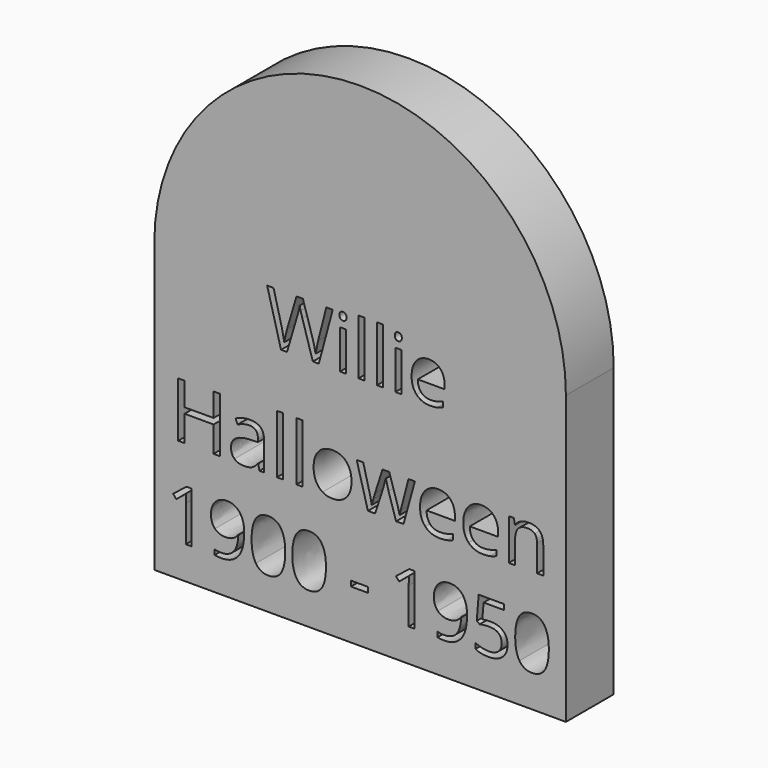
from build123d import *

# Parameters (mm, degrees)
F0_W     = 7.2577133946
F0_H     = 2.2473362858
F0_W_2   = 2.6551204313
F0_H_2   = 24.8783249663
F0_W_3   = 2.5140823151
F0_H_3   = 16.5910056441
F0_H_4   = 23.5568059701
F1_DEPTH = 25.4


with BuildPart() as f1:
    # F0 (on Front) → F1 (new body)
    with BuildSketch(Plane.XZ):
        with BuildLine():
            ThreePointArc((88.068138808, 47.0155989751), (0.5923323333, 134.4914054498), (-86.8834741414, 47.0155989751))
            Line((-86.8834741414, 47.0155989751), (-86.8834741414, -75.1739479601))
            Line((-86.8834741414, -75.1739479601), (88.068138808, -75.1739479601))
            Line((88.068138808, -75.1739479601), (88.068138808, 47.0155989751))
        make_face()
        with BuildLine():
            Line((-71.0892814111, -39.6145068492), (-71.0892814111, -61.2315163016))
            Line((-71.0892814111, -61.2315163016), (-73.4832859598, -61.2315163016))
            Line((-73.4832859598, -61.2315163016), (-73.4832859598, -45.8266174666))
            add(Edge.make_bspline(
                [(-73.4832859598, -45.8266174666), (-73.4832859598, -43.9010051123), (-73.3650051027, -42.1882983008)],
                knots=[0, 0, 0, 1, 1, 1], degree=2))
            add(Edge.make_bspline(
                [(-73.3650051027, -42.1882983008), (-73.6725353312, -42.5005597636), (-74.0581309256, -42.8388430151)],
                knots=[0, 0, 0, 1, 1, 1], degree=2))
            add(Edge.make_bspline(
                [(-74.0581309256, -42.8388430151), (-74.4437265199, -43.1771262665), (-77.5758036171, -45.7225303124)],
                knots=[0, 0, 0, 1, 1, 1], degree=2))
            Line((-77.5758036171, -45.7225303124), (-78.8768930458, -44.0382109066))
            Line((-78.8768930458, -44.0382109066), (-73.1568307941, -39.6145068492))
            Line((-73.1568307941, -39.6145068492), (-71.0892814111, -39.6145068492))
        make_face(mode=Mode.SUBTRACT)
        with BuildLine():
            add(Edge.make_bspline(
                [(-49.5456060902, -43.7330462951), (-48.6584996615, -45.8975859809), (-48.6584996615, -48.8404137068)],
                knots=[0, 0, 0, 1, 1, 1], degree=2))
            add(Edge.make_bspline(
                [(-48.6584996615, -48.8404137068), (-48.6584996615, -61.5295840616), (-58.4758108048, -61.5295840616)],
                knots=[0, 0, 0, 1, 1, 1], degree=2))
            add(Edge.make_bspline(
                [(-58.4758108048, -61.5295840616), (-60.1932488506, -61.5295840616), (-61.1962705193, -61.2315163016)],
                knots=[0, 0, 0, 1, 1, 1], degree=2))
            Line((-61.1962705193, -61.2315163016), (-61.1962705193, -59.1166545758))
            add(Edge.make_bspline(
                [(-61.1962705193, -59.1166545758), (-60.0134619478, -59.499884553), (-58.5089294448, -59.499884553)],
                knots=[0, 0, 0, 1, 1, 1], degree=2))
            add(Edge.make_bspline(
                [(-58.5089294448, -59.499884553), (-54.9605037304, -59.499884553), (-53.1484409989, -57.3045918443)],
                knots=[0, 0, 0, 1, 1, 1], degree=2))
            add(Edge.make_bspline(
                [(-53.1484409989, -57.3045918443), (-51.3363782674, -55.1092991356), (-51.1755163017, -50.5720454554)],
                knots=[0, 0, 0, 1, 1, 1], degree=2))
            Line((-51.1755163017, -50.5720454554), (-51.3505719702, -50.5720454554))
            add(Edge.make_bspline(
                [(-51.3505719702, -50.5720454554), (-52.1643442674, -51.7974351355), (-53.5103804218, -52.4408829984)],
                knots=[0, 0, 0, 1, 1, 1], degree=2))
            add(Edge.make_bspline(
                [(-53.5103804218, -52.4408829984), (-54.8564165761, -53.0843308613), (-56.5407359819, -53.0843308613)],
                knots=[0, 0, 0, 1, 1, 1], degree=2))
            add(Edge.make_bspline(
                [(-56.5407359819, -53.0843308613), (-59.4078639592, -53.0843308613), (-61.0945489821, -51.3692584326)],
                knots=[0, 0, 0, 1, 1, 1], degree=2))
            add(Edge.make_bspline(
                [(-61.0945489821, -51.3692584326), (-62.781234005, -49.654186004), (-62.781234005, -46.5788837181)],
                knots=[0, 0, 0, 1, 1, 1], degree=2))
            add(Edge.make_bspline(
                [(-62.781234005, -46.5788837181), (-62.781234005, -43.2102449065), (-60.8958371421, -41.2586107636)],
                knots=[0, 0, 0, 1, 1, 1], degree=2))
            add(Edge.make_bspline(
                [(-60.8958371421, -41.2586107636), (-59.0104402792, -39.3069766206), (-55.9351379933, -39.3069766206)],
                knots=[0, 0, 0, 1, 1, 1], degree=2))
            add(Edge.make_bspline(
                [(-55.9351379933, -39.3069766206), (-53.7303828161, -39.3069766206), (-52.0815476674, -40.437741615)],
                knots=[0, 0, 0, 1, 1, 1], degree=2))
            add(Edge.make_bspline(
                [(-52.0815476674, -40.437741615), (-50.4327125188, -41.5685066093), (-49.5456060902, -43.7330462951)],
                knots=[0, 0, 0, 1, 1, 1], degree=2))
        make_face(mode=Mode.SUBTRACT)
        with BuildLine():
            add(Edge.make_bspline(
                [(-33.0548889865, -42.1291578722), (-31.2286325522, -44.9844577638), (-31.2286325522, -50.3922585526)],
                knots=[0, 0, 0, 1, 1, 1], degree=2))
            add(Edge.make_bspline(
                [(-31.2286325522, -50.3922585526), (-31.2286325522, -55.9987711814), (-32.995748558, -58.7641776215)],
                knots=[0, 0, 0, 1, 1, 1], degree=2))
            add(Edge.make_bspline(
                [(-32.995748558, -58.7641776215), (-34.7628645638, -61.5295840616), (-38.4011837296, -61.5295840616)],
                knots=[0, 0, 0, 1, 1, 1], degree=2))
            add(Edge.make_bspline(
                [(-38.4011837296, -61.5295840616), (-41.8881033984, -61.5295840616), (-43.7072629813, -58.6979403415)],
                knots=[0, 0, 0, 1, 1, 1], degree=2))
            add(Edge.make_bspline(
                [(-43.7072629813, -58.6979403415), (-45.5264225643, -55.8662966214), (-45.5264225643, -50.3922585526)],
                knots=[0, 0, 0, 1, 1, 1], degree=2))
            add(Edge.make_bspline(
                [(-45.5264225643, -50.3922585526), (-45.5264225643, -44.7478960495), (-43.7664034099, -42.010877015)],
                knots=[0, 0, 0, 1, 1, 1], degree=2))
            add(Edge.make_bspline(
                [(-43.7664034099, -42.010877015), (-42.0063842555, -39.2738579806), (-38.4011837296, -39.2738579806)],
                knots=[0, 0, 0, 1, 1, 1], degree=2))
            add(Edge.make_bspline(
                [(-38.4011837296, -39.2738579806), (-34.8811454209, -39.2738579806), (-33.0548889865, -42.1291578722)],
                knots=[0, 0, 0, 1, 1, 1], degree=2))
        make_face(mode=Mode.SUBTRACT)
        with BuildLine():
            add(Edge.make_bspline(
                [(-15.7433027343, -42.1291578722), (-13.9170463, -44.9844577638), (-13.9170463, -50.3922585526)],
                knots=[0, 0, 0, 1, 1, 1], degree=2))
            add(Edge.make_bspline(
                [(-13.9170463, -50.3922585526), (-13.9170463, -55.9987711814), (-15.6841623058, -58.7641776215)],
                knots=[0, 0, 0, 1, 1, 1], degree=2))
            add(Edge.make_bspline(
                [(-15.6841623058, -58.7641776215), (-17.4512783116, -61.5295840616), (-21.0895974774, -61.5295840616)],
                knots=[0, 0, 0, 1, 1, 1], degree=2))
            add(Edge.make_bspline(
                [(-21.0895974774, -61.5295840616), (-24.5765171462, -61.5295840616), (-26.3956767291, -58.6979403415)],
                knots=[0, 0, 0, 1, 1, 1], degree=2))
            add(Edge.make_bspline(
                [(-26.3956767291, -58.6979403415), (-28.214836312, -55.8662966214), (-28.214836312, -50.3922585526)],
                knots=[0, 0, 0, 1, 1, 1], degree=2))
            add(Edge.make_bspline(
                [(-28.214836312, -50.3922585526), (-28.214836312, -44.7478960495), (-26.4548171577, -42.010877015)],
                knots=[0, 0, 0, 1, 1, 1], degree=2))
            add(Edge.make_bspline(
                [(-26.4548171577, -42.010877015), (-24.6947980033, -39.2738579806), (-21.0895974774, -39.2738579806)],
                knots=[0, 0, 0, 1, 1, 1], degree=2))
            add(Edge.make_bspline(
                [(-21.0895974774, -39.2738579806), (-17.5695591687, -39.2738579806), (-15.7433027343, -42.1291578722)],
                knots=[0, 0, 0, 1, 1, 1], degree=2))
        make_face(mode=Mode.SUBTRACT)
        with Locations((0.328700135, -53.1150838841)):
            Rectangle(F0_W, F0_H, mode=Mode.SUBTRACT)
        Polygon((-58.9741195759, -0.1995177203), (-58.9741195759, -23.573786026), (-61.690630075, -23.573786026), (-61.690630075, -12.5747322161), (-74.0044545031, -12.5747322161), (-74.0044545031, -23.573786026), (-76.7209650021, -23.573786026), (-76.7209650021, -0.1995177203), (-74.0044545031, -0.1995177203), (-74.0044545031, -10.1447087), (-61.690630075, -10.1447087), (-61.690630075, -0.1995177203), align=None, mode=Mode.SUBTRACT)
        with BuildLine():
            Line((-40.2194538703, -23.573786026), (-42.1890518781, -23.573786026))
            Line((-42.1890518781, -23.573786026), (-42.7159832932, -21.0772566031))
            Line((-42.7159832932, -21.0772566031), (-42.8438792677, -21.0772566031))
            add(Edge.make_bspline(
                [(-42.8438792677, -21.0772566031), (-44.1535340469, -22.7245567551), (-45.4555150677, -23.3103203185)],
                knots=[0, 0, 0, 1, 1, 1], degree=2))
            add(Edge.make_bspline(
                [(-45.4555150677, -23.3103203185), (-46.7574960884, -23.8960838818), (-48.7117465793, -23.8960838818)],
                knots=[0, 0, 0, 1, 1, 1], degree=2))
            add(Edge.make_bspline(
                [(-48.7117465793, -23.8960838818), (-51.3157086208, -23.8960838818), (-52.7941860864, -22.5506182297)],
                knots=[0, 0, 0, 1, 1, 1], degree=2))
            add(Edge.make_bspline(
                [(-52.7941860864, -22.5506182297), (-54.272663552, -21.2051525777), (-54.272663552, -18.7290865107)],
                knots=[0, 0, 0, 1, 1, 1], degree=2))
            add(Edge.make_bspline(
                [(-54.272663552, -18.7290865107), (-54.272663552, -13.423961487), (-45.785486682, -13.168169538)],
                knots=[0, 0, 0, 1, 1, 1], degree=2))
            Line((-45.785486682, -13.168169538), (-42.8131842338, -13.0709685973))
            Line((-42.8131842338, -13.0709685973), (-42.8131842338, -11.9812948943))
            add(Edge.make_bspline(
                [(-42.8131842338, -11.9812948943), (-42.8131842338, -9.9196117848), (-43.6982243776, -8.9373707004)],
                knots=[0, 0, 0, 1, 1, 1], degree=2))
            add(Edge.make_bspline(
                [(-43.6982243776, -8.9373707004), (-44.5832645214, -7.955129616), (-46.5375150122, -7.955129616)],
                knots=[0, 0, 0, 1, 1, 1], degree=2))
            add(Edge.make_bspline(
                [(-46.5375150122, -7.955129616), (-48.7270940963, -7.955129616), (-51.4896471462, -9.2954794291)],
                knots=[0, 0, 0, 1, 1, 1], degree=2))
            Line((-51.4896471462, -9.2954794291), (-52.3081813832, -7.2644913535))
            add(Edge.make_bspline(
                [(-52.3081813832, -7.2644913535), (-51.0138741209, -6.5636214131), (-49.471448668, -6.1645859725)],
                knots=[0, 0, 0, 1, 1, 1], degree=2))
            add(Edge.make_bspline(
                [(-49.471448668, -6.1645859725), (-47.9290232152, -5.765550532), (-46.3738081648, -5.765550532)],
                knots=[0, 0, 0, 1, 1, 1], degree=2))
            add(Edge.make_bspline(
                [(-46.3738081648, -5.765550532), (-43.2429147083, -5.765550532), (-41.7311842893, -7.1545008154)],
                knots=[0, 0, 0, 1, 1, 1], degree=2))
            add(Edge.make_bspline(
                [(-41.7311842893, -7.1545008154), (-40.2194538703, -8.5434510988), (-40.2194538703, -11.6129544876)],
                knots=[0, 0, 0, 1, 1, 1], degree=2))
            Line((-40.2194538703, -11.6129544876), (-40.2194538703, -23.573786026))
        make_face(mode=Mode.SUBTRACT)
        with Locations((-33.4281776226, -11.1346235429)):
            Rectangle(F0_W_2, F0_H_2, mode=Mode.SUBTRACT)
        with Locations((-25.1456343118, -11.1346235429)):
            Rectangle(F0_W_2, F0_H_2, mode=Mode.SUBTRACT)
        with BuildLine():
            add(Edge.make_bspline(
                [(-5.2347889964, -8.1776686117), (-3.0682311878, -10.6255975642), (-3.0682311878, -14.795006334)],
                knots=[0, 0, 0, 1, 1, 1], degree=2))
            add(Edge.make_bspline(
                [(-3.0682311878, -14.795006334), (-3.0682311878, -19.0820794004), (-5.2245573184, -21.4890816411)],
                knots=[0, 0, 0, 1, 1, 1], degree=2))
            add(Edge.make_bspline(
                [(-5.2245573184, -21.4890816411), (-7.3808834491, -23.8960838818), (-11.1870676512, -23.8960838818)],
                knots=[0, 0, 0, 1, 1, 1], degree=2))
            add(Edge.make_bspline(
                [(-11.1870676512, -23.8960838818), (-13.5403535826, -23.8960838818), (-15.36159226, -22.7910626619)],
                knots=[0, 0, 0, 1, 1, 1], degree=2))
            add(Edge.make_bspline(
                [(-15.36159226, -22.7910626619), (-17.1828309373, -21.6860414419), (-18.1753036997, -19.6243583324)],
                knots=[0, 0, 0, 1, 1, 1], degree=2))
            add(Edge.make_bspline(
                [(-18.1753036997, -19.6243583324), (-19.1677764621, -17.5626752229), (-19.1677764621, -14.795006334)],
                knots=[0, 0, 0, 1, 1, 1], degree=2))
            add(Edge.make_bspline(
                [(-19.1677764621, -14.795006334), (-19.1677764621, -10.5130491067), (-17.0242399289, -8.1213943829)],
                knots=[0, 0, 0, 1, 1, 1], degree=2))
            add(Edge.make_bspline(
                [(-17.0242399289, -8.1213943829), (-14.8807033957, -5.7297396591), (-11.0745191936, -5.7297396591)],
                knots=[0, 0, 0, 1, 1, 1], degree=2))
            add(Edge.make_bspline(
                [(-11.0745191936, -5.7297396591), (-7.401346805, -5.7297396591), (-5.2347889964, -8.1776686117)],
                knots=[0, 0, 0, 1, 1, 1], degree=2))
        make_face(mode=Mode.SUBTRACT)
        with BuildLine():
            Line((23.6347602274, -39.6145068492), (23.6347602274, -61.2315163016))
            Line((23.6347602274, -61.2315163016), (21.2407556788, -61.2315163016))
            Line((21.2407556788, -61.2315163016), (21.2407556788, -45.8266174666))
            add(Edge.make_bspline(
                [(21.2407556788, -45.8266174666), (21.2407556788, -43.9010051123), (21.3590365359, -42.1882983008)],
                knots=[0, 0, 0, 1, 1, 1], degree=2))
            add(Edge.make_bspline(
                [(21.3590365359, -42.1882983008), (21.0515063073, -42.5005597636), (20.665910713, -42.8388430151)],
                knots=[0, 0, 0, 1, 1, 1], degree=2))
            add(Edge.make_bspline(
                [(20.665910713, -42.8388430151), (20.2803151187, -43.1771262665), (17.1482380214, -45.7225303124)],
                knots=[0, 0, 0, 1, 1, 1], degree=2))
            Line((17.1482380214, -45.7225303124), (15.8471485928, -44.0382109066))
            Line((15.8471485928, -44.0382109066), (21.5672108445, -39.6145068492))
            Line((21.5672108445, -39.6145068492), (23.6347602274, -39.6145068492))
        make_face(mode=Mode.SUBTRACT)
        with BuildLine():
            add(Edge.make_bspline(
                [(45.1784355484, -43.7330462951), (46.065541977, -45.8975859809), (46.065541977, -48.8404137068)],
                knots=[0, 0, 0, 1, 1, 1], degree=2))
            add(Edge.make_bspline(
                [(46.065541977, -48.8404137068), (46.065541977, -61.5295840616), (36.2482308337, -61.5295840616)],
                knots=[0, 0, 0, 1, 1, 1], degree=2))
            add(Edge.make_bspline(
                [(36.2482308337, -61.5295840616), (34.5307927879, -61.5295840616), (33.5277711193, -61.2315163016)],
                knots=[0, 0, 0, 1, 1, 1], degree=2))
            Line((33.5277711193, -61.2315163016), (33.5277711193, -59.1166545758))
            add(Edge.make_bspline(
                [(33.5277711193, -59.1166545758), (34.7105796908, -59.499884553), (36.2151121937, -59.499884553)],
                knots=[0, 0, 0, 1, 1, 1], degree=2))
            add(Edge.make_bspline(
                [(36.2151121937, -59.499884553), (39.7635379082, -59.499884553), (41.5756006397, -57.3045918443)],
                knots=[0, 0, 0, 1, 1, 1], degree=2))
            add(Edge.make_bspline(
                [(41.5756006397, -57.3045918443), (43.3876633712, -55.1092991356), (43.5485253369, -50.5720454554)],
                knots=[0, 0, 0, 1, 1, 1], degree=2))
            Line((43.5485253369, -50.5720454554), (43.3734696683, -50.5720454554))
            add(Edge.make_bspline(
                [(43.3734696683, -50.5720454554), (42.5596973712, -51.7974351355), (41.2136612168, -52.4408829984)],
                knots=[0, 0, 0, 1, 1, 1], degree=2))
            add(Edge.make_bspline(
                [(41.2136612168, -52.4408829984), (39.8676250625, -53.0843308613), (38.1833056567, -53.0843308613)],
                knots=[0, 0, 0, 1, 1, 1], degree=2))
            add(Edge.make_bspline(
                [(38.1833056567, -53.0843308613), (35.3161776794, -53.0843308613), (33.6294926565, -51.3692584326)],
                knots=[0, 0, 0, 1, 1, 1], degree=2))
            add(Edge.make_bspline(
                [(33.6294926565, -51.3692584326), (31.9428076335, -49.654186004), (31.9428076335, -46.5788837181)],
                knots=[0, 0, 0, 1, 1, 1], degree=2))
            add(Edge.make_bspline(
                [(31.9428076335, -46.5788837181), (31.9428076335, -43.2102449065), (33.8282044965, -41.2586107636)],
                knots=[0, 0, 0, 1, 1, 1], degree=2))
            add(Edge.make_bspline(
                [(33.8282044965, -41.2586107636), (35.7136013594, -39.3069766206), (38.7889036453, -39.3069766206)],
                knots=[0, 0, 0, 1, 1, 1], degree=2))
            add(Edge.make_bspline(
                [(38.7889036453, -39.3069766206), (40.9936588225, -39.3069766206), (42.6424939712, -40.437741615)],
                knots=[0, 0, 0, 1, 1, 1], degree=2))
            add(Edge.make_bspline(
                [(42.6424939712, -40.437741615), (44.2913291198, -41.5685066093), (45.1784355484, -43.7330462951)],
                knots=[0, 0, 0, 1, 1, 1], degree=2))
        make_face(mode=Mode.SUBTRACT)
        with BuildLine():
            add(Edge.make_bspline(
                [(52.5378704802, -48.3672902782), (54.2363835888, -48.0266414096), (55.9254342289, -48.0266414096)],
                knots=[0, 0, 0, 1, 1, 1], degree=2))
            add(Edge.make_bspline(
                [(55.9254342289, -48.0266414096), (59.3413853834, -48.0266414096), (61.3001163777, -49.720423284)],
                knots=[0, 0, 0, 1, 1, 1], degree=2))
            add(Edge.make_bspline(
                [(61.3001163777, -49.720423284), (63.2588473721, -51.4142051583), (63.2588473721, -54.3570328842)],
                knots=[0, 0, 0, 1, 1, 1], degree=2))
            add(Edge.make_bspline(
                [(63.2588473721, -54.3570328842), (63.2588473721, -57.7114779929), (61.122695092, -59.6205310273)],
                knots=[0, 0, 0, 1, 1, 1], degree=2))
            add(Edge.make_bspline(
                [(61.122695092, -59.6205310273), (58.9865428119, -61.5295840616), (55.2299427889, -61.5295840616)],
                knots=[0, 0, 0, 1, 1, 1], degree=2))
            add(Edge.make_bspline(
                [(55.2299427889, -61.5295840616), (51.5774299201, -61.5295840616), (49.6565488001, -60.360969193)],
                knots=[0, 0, 0, 1, 1, 1], degree=2))
            Line((49.6565488001, -60.360969193), (49.6565488001, -57.9953520501))
            add(Edge.make_bspline(
                [(49.6565488001, -57.9953520501), (50.6879578744, -58.6577248501), (52.2256090173, -59.036223593)],
                knots=[0, 0, 0, 1, 1, 1], degree=2))
            add(Edge.make_bspline(
                [(52.2256090173, -59.036223593), (53.7632601602, -59.4147223358), (55.2583301946, -59.4147223358)],
                knots=[0, 0, 0, 1, 1, 1], degree=2))
            add(Edge.make_bspline(
                [(55.2583301946, -59.4147223358), (57.8605090519, -59.4147223358), (59.3011698919, -58.1869670386)],
                knots=[0, 0, 0, 1, 1, 1], degree=2))
            add(Edge.make_bspline(
                [(59.3011698919, -58.1869670386), (60.741830732, -56.9592117414), (60.741830732, -54.636175707)],
                knots=[0, 0, 0, 1, 1, 1], degree=2))
            add(Edge.make_bspline(
                [(60.741830732, -54.636175707), (60.741830732, -50.1131157297), (55.2015553832, -50.1131157297)],
                knots=[0, 0, 0, 1, 1, 1], degree=2))
            add(Edge.make_bspline(
                [(55.2015553832, -50.1131157297), (53.7963788002, -50.1131157297), (51.4449553601, -50.5436580497)],
                knots=[0, 0, 0, 1, 1, 1], degree=2))
            Line((51.4449553601, -50.5436580497), (50.1722533372, -49.7298857525))
            Line((50.1722533372, -49.7298857525), (50.9860256344, -39.6145068492))
            Line((50.9860256344, -39.6145068492), (61.735389932, -39.6145068492))
            Line((61.735389932, -39.6145068492), (61.735389932, -41.8760368379))
            Line((61.735389932, -41.8760368379), (53.0866936574, -41.8760368379))
            Line((53.0866936574, -41.8760368379), (52.5378704802, -48.3672902782))
        make_face(mode=Mode.SUBTRACT)
        with BuildLine():
            add(Edge.make_bspline(
                [(78.9807389042, -42.1291578722), (80.8069953386, -44.9844577638), (80.8069953386, -50.3922585526)],
                knots=[0, 0, 0, 1, 1, 1], degree=2))
            add(Edge.make_bspline(
                [(80.8069953386, -50.3922585526), (80.8069953386, -55.9987711814), (79.0398793328, -58.7641776215)],
                knots=[0, 0, 0, 1, 1, 1], degree=2))
            add(Edge.make_bspline(
                [(79.0398793328, -58.7641776215), (77.272763327, -61.5295840616), (73.6344441611, -61.5295840616)],
                knots=[0, 0, 0, 1, 1, 1], degree=2))
            add(Edge.make_bspline(
                [(73.6344441611, -61.5295840616), (70.1475244924, -61.5295840616), (68.3283649095, -58.6979403415)],
                knots=[0, 0, 0, 1, 1, 1], degree=2))
            add(Edge.make_bspline(
                [(68.3283649095, -58.6979403415), (66.5092053265, -55.8662966214), (66.5092053265, -50.3922585526)],
                knots=[0, 0, 0, 1, 1, 1], degree=2))
            add(Edge.make_bspline(
                [(66.5092053265, -50.3922585526), (66.5092053265, -44.7478960495), (68.2692244809, -42.010877015)],
                knots=[0, 0, 0, 1, 1, 1], degree=2))
            add(Edge.make_bspline(
                [(68.2692244809, -42.010877015), (70.0292436353, -39.2738579806), (73.6344441611, -39.2738579806)],
                knots=[0, 0, 0, 1, 1, 1], degree=2))
            add(Edge.make_bspline(
                [(73.6344441611, -39.2738579806), (77.1544824699, -39.2738579806), (78.9807389042, -42.1291578722)],
                knots=[0, 0, 0, 1, 1, 1], degree=2))
        make_face(mode=Mode.SUBTRACT)
        with BuildLine():
            Line((19.0475407285, -23.573786026), (15.896183916, -23.573786026))
            Line((15.896183916, -23.573786026), (12.6834370357, -13.2960655125))
            add(Edge.make_bspline(
                [(12.6834370357, -13.2960655125), (12.3764866969, -12.349635301), (11.5477207819, -9.0089924461)],
                knots=[0, 0, 0, 1, 1, 1], degree=2))
            Line((11.5477207819, -9.0089924461), (11.4198248074, -9.0089924461))
            add(Edge.make_bspline(
                [(11.4198248074, -9.0089924461), (10.7803449347, -11.8073563689), (10.2994560704, -13.3267605464)],
                knots=[0, 0, 0, 1, 1, 1], degree=2))
            Line((10.2994560704, -13.3267605464), (6.9895082495, -23.573786026))
            Line((6.9895082495, -23.573786026), (3.9200048607, -23.573786026))
            Line((3.9200048607, -23.573786026), (-0.8581887479, -6.0520375149))
            Line((-0.8581887479, -6.0520375149), (1.924827658, -6.0520375149))
            add(Edge.make_bspline(
                [(1.924827658, -6.0520375149), (3.6181703608, -12.6565856398), (4.5057684241, -16.1097769522)],
                knots=[0, 0, 0, 1, 1, 1], degree=2))
            add(Edge.make_bspline(
                [(4.5057684241, -16.1097769522), (5.3933664873, -19.5629682646), (5.5212624619, -20.7600745863)],
                knots=[0, 0, 0, 1, 1, 1], degree=2))
            Line((5.5212624619, -20.7600745863), (5.6491584364, -20.7600745863))
            add(Edge.make_bspline(
                [(5.6491584364, -20.7600745863), (5.8230969618, -19.8494552476), (6.2144586438, -18.4016728159)],
                knots=[0, 0, 0, 1, 1, 1], degree=2))
            add(Edge.make_bspline(
                [(6.2144586438, -18.4016728159), (6.6058203259, -16.9538903842), (6.8974231478, -16.1097769522)],
                knots=[0, 0, 0, 1, 1, 1], degree=2))
            Line((6.8974231478, -16.1097769522), (10.1101700281, -6.0520375149))
            Line((10.1101700281, -6.0520375149), (12.9852715356, -6.0520375149))
            Line((12.9852715356, -6.0520375149), (16.1212808312, -16.1097769522))
            add(Edge.make_bspline(
                [(16.1212808312, -16.1097769522), (17.0165526529, -18.8569824852), (17.3337346698, -20.7293795524)],
                knots=[0, 0, 0, 1, 1, 1], degree=2))
            Line((17.3337346698, -20.7293795524), (17.4616306443, -20.7293795524))
            add(Edge.make_bspline(
                [(17.4616306443, -20.7293795524), (17.5281365511, -20.1512897475), (17.8069497756, -18.9516255064)],
                knots=[0, 0, 0, 1, 1, 1], degree=2))
            add(Edge.make_bspline(
                [(17.8069497756, -18.9516255064), (18.085763, -17.7519612652), (21.1399188719, -6.0520375149)],
                knots=[0, 0, 0, 1, 1, 1], degree=2))
            Line((21.1399188719, -6.0520375149), (23.8871244049, -6.0520375149))
            Line((23.8871244049, -6.0520375149), (19.0475407285, -23.573786026))
        make_face(mode=Mode.SUBTRACT)
        with BuildLine():
            add(Edge.make_bspline(
                [(37.4850244173, -23.6300602548), (36.2316438668, -23.8960838818), (34.4564477403, -23.8960838818)],
                knots=[0, 0, 0, 1, 1, 1], degree=2))
            add(Edge.make_bspline(
                [(34.4564477403, -23.8960838818), (30.5735259535, -23.8960838818), (28.3251147212, -21.5274504335)],
                knots=[0, 0, 0, 1, 1, 1], degree=2))
            add(Edge.make_bspline(
                [(28.3251147212, -21.5274504335), (26.0767034889, -19.1588169851), (26.0767034889, -14.9587131814)],
                knots=[0, 0, 0, 1, 1, 1], degree=2))
            add(Edge.make_bspline(
                [(26.0767034889, -14.9587131814), (26.0767034889, -10.7176826659), (28.1639657933, -8.2237111625)],
                knots=[0, 0, 0, 1, 1, 1], degree=2))
            add(Edge.make_bspline(
                [(28.1639657933, -8.2237111625), (30.2512280977, -5.7297396591), (33.7709253168, -5.7297396591)],
                knots=[0, 0, 0, 1, 1, 1], degree=2))
            add(Edge.make_bspline(
                [(33.7709253168, -5.7297396591), (37.0604097818, -5.7297396591), (38.9788493998, -7.8962974677)],
                knots=[0, 0, 0, 1, 1, 1], degree=2))
            add(Edge.make_bspline(
                [(38.9788493998, -7.8962974677), (40.8972890178, -10.0628552763), (40.8972890178, -13.6132475293)],
                knots=[0, 0, 0, 1, 1, 1], degree=2))
            Line((40.8972890178, -13.6132475293), (40.8972890178, -15.2912427152))
            Line((40.8972890178, -15.2912427152), (28.8290248608, -15.2912427152))
            add(Edge.make_bspline(
                [(28.8290248608, -15.2912427152), (28.9108782845, -18.376093621), (30.3893557502, -19.9747933026)],
                knots=[0, 0, 0, 1, 1, 1], degree=2))
            add(Edge.make_bspline(
                [(30.3893557502, -19.9747933026), (31.8678332158, -21.5734929843), (34.553648681, -21.5734929843)],
                knots=[0, 0, 0, 1, 1, 1], degree=2))
            add(Edge.make_bspline(
                [(34.553648681, -21.5734929843), (37.3827076376, -21.5734929843), (40.1452606876, -20.3917341796)],
                knots=[0, 0, 0, 1, 1, 1], degree=2))
            Line((40.1452606876, -20.3917341796), (40.1452606876, -22.760367628))
            add(Edge.make_bspline(
                [(40.1452606876, -22.760367628), (38.7384049677, -23.3640366278), (37.4850244173, -23.6300602548)],
                knots=[0, 0, 0, 1, 1, 1], degree=2))
        make_face(mode=Mode.SUBTRACT)
        with BuildLine():
            add(Edge.make_bspline(
                [(55.8560021993, -23.6300602548), (54.6026216488, -23.8960838818), (52.8274255223, -23.8960838818)],
                knots=[0, 0, 0, 1, 1, 1], degree=2))
            add(Edge.make_bspline(
                [(52.8274255223, -23.8960838818), (48.9445037355, -23.8960838818), (46.6960925032, -21.5274504335)],
                knots=[0, 0, 0, 1, 1, 1], degree=2))
            add(Edge.make_bspline(
                [(46.6960925032, -21.5274504335), (44.4476812709, -19.1588169851), (44.4476812709, -14.9587131814)],
                knots=[0, 0, 0, 1, 1, 1], degree=2))
            add(Edge.make_bspline(
                [(44.4476812709, -14.9587131814), (44.4476812709, -10.7176826659), (46.5349435753, -8.2237111625)],
                knots=[0, 0, 0, 1, 1, 1], degree=2))
            add(Edge.make_bspline(
                [(46.5349435753, -8.2237111625), (48.6222058796, -5.7297396591), (52.1419030988, -5.7297396591)],
                knots=[0, 0, 0, 1, 1, 1], degree=2))
            add(Edge.make_bspline(
                [(52.1419030988, -5.7297396591), (55.4313875638, -5.7297396591), (57.3498271818, -7.8962974677)],
                knots=[0, 0, 0, 1, 1, 1], degree=2))
            add(Edge.make_bspline(
                [(57.3498271818, -7.8962974677), (59.2682667998, -10.0628552763), (59.2682667998, -13.6132475293)],
                knots=[0, 0, 0, 1, 1, 1], degree=2))
            Line((59.2682667998, -13.6132475293), (59.2682667998, -15.2912427152))
            Line((59.2682667998, -15.2912427152), (47.2000026428, -15.2912427152))
            add(Edge.make_bspline(
                [(47.2000026428, -15.2912427152), (47.2818560665, -18.376093621), (48.7603335321, -19.9747933026)],
                knots=[0, 0, 0, 1, 1, 1], degree=2))
            add(Edge.make_bspline(
                [(48.7603335321, -19.9747933026), (50.2388109978, -21.5734929843), (52.924626463, -21.5734929843)],
                knots=[0, 0, 0, 1, 1, 1], degree=2))
            add(Edge.make_bspline(
                [(52.924626463, -21.5734929843), (55.7536854196, -21.5734929843), (58.5162384696, -20.3917341796)],
                knots=[0, 0, 0, 1, 1, 1], degree=2))
            Line((58.5162384696, -20.3917341796), (58.5162384696, -22.760367628))
            add(Edge.make_bspline(
                [(58.5162384696, -22.760367628), (57.1093827497, -23.3640366278), (55.8560021993, -23.6300602548)],
                knots=[0, 0, 0, 1, 1, 1], degree=2))
        make_face(mode=Mode.SUBTRACT)
        with BuildLine():
            Line((78.4424313019, -23.573786026), (75.7873108706, -23.573786026))
            Line((75.7873108706, -23.573786026), (75.7873108706, -12.2370868434))
            add(Edge.make_bspline(
                [(75.7873108706, -12.2370868434), (75.7873108706, -10.0986661492), (74.8127435446, -9.0422453995)],
                knots=[0, 0, 0, 1, 1, 1], degree=2))
            add(Edge.make_bspline(
                [(74.8127435446, -9.0422453995), (73.8381762187, -7.9858246499), (71.7560297533, -7.9858246499)],
                knots=[0, 0, 0, 1, 1, 1], degree=2))
            add(Edge.make_bspline(
                [(71.7560297533, -7.9858246499), (69.0088242203, -7.9858246499), (67.729864475, -9.4719758739)],
                knots=[0, 0, 0, 1, 1, 1], degree=2))
            add(Edge.make_bspline(
                [(67.729864475, -9.4719758739), (66.4509047296, -10.958127098), (66.4509047296, -14.3806233765)],
                knots=[0, 0, 0, 1, 1, 1], degree=2))
            Line((66.4509047296, -14.3806233765), (66.4509047296, -23.573786026))
            Line((66.4509047296, -23.573786026), (63.7957842983, -23.573786026))
            Line((63.7957842983, -23.573786026), (63.7957842983, -6.0520375149))
            Line((63.7957842983, -6.0520375149), (65.9546683484, -6.0520375149))
            Line((65.9546683484, -6.0520375149), (66.3843988229, -8.4513659972))
            Line((66.3843988229, -8.4513659972), (66.5122947974, -8.4513659972))
            add(Edge.make_bspline(
                [(66.5122947974, -8.4513659972), (67.3308290344, -7.1570587349), (68.8016327415, -6.443399197)],
                knots=[0, 0, 0, 1, 1, 1], degree=2))
            add(Edge.make_bspline(
                [(68.8016327415, -6.443399197), (70.2724364487, -5.7297396591), (72.0783276091, -5.7297396591)],
                knots=[0, 0, 0, 1, 1, 1], degree=2))
            add(Edge.make_bspline(
                [(72.0783276091, -5.7297396591), (75.2450319385, -5.7297396591), (76.8437316202, -7.256817595)],
                knots=[0, 0, 0, 1, 1, 1], degree=2))
            add(Edge.make_bspline(
                [(76.8437316202, -7.256817595), (78.4424313019, -8.783895531), (78.4424313019, -12.1450017417)],
                knots=[0, 0, 0, 1, 1, 1], degree=2))
            Line((78.4424313019, -12.1450017417), (78.4424313019, -23.573786026))
        make_face(mode=Mode.SUBTRACT)
        with BuildLine():
            Line((-11.0396365684, 46.8266794948), (-16.9591136186, 24.6940357611))
            Line((-16.9591136186, 24.6940357611), (-19.5022604692, 24.6940357611))
            Line((-19.5022604692, 24.6940357611), (-23.9685107477, 39.5121047437))
            add(Edge.make_bspline(
                [(-23.9685107477, 39.5121047437), (-24.2882206375, 40.5002989484), (-24.6805918658, 41.9971225233)],
                knots=[0, 0, 0, 1, 1, 1], degree=2))
            add(Edge.make_bspline(
                [(-24.6805918658, 41.9971225233), (-25.0729630942, 43.4939460983), (-25.0874953619, 43.7991237203)],
                knots=[0, 0, 0, 1, 1, 1], degree=2))
            add(Edge.make_bspline(
                [(-25.0874953619, 43.7991237203), (-25.4217375194, 41.7985148645), (-26.1483509053, 39.4249111374)],
                knots=[0, 0, 0, 1, 1, 1], degree=2))
            Line((-26.1483509053, 39.4249111374), (-30.4789666851, 24.6940357611))
            Line((-30.4789666851, 24.6940357611), (-33.0221135357, 24.6940357611))
            Line((-33.0221135357, 24.6940357611), (-38.9125260505, 46.8266794948))
            Line((-38.9125260505, 46.8266794948), (-36.1853038089, 46.8266794948))
            Line((-36.1853038089, 46.8266794948), (-32.6878713782, 33.1566596619))
            add(Edge.make_bspline(
                [(-32.6878713782, 33.1566596619), (-31.9612579923, 30.2792706538), (-31.6270158348, 27.9492637298)],
                knots=[0, 0, 0, 1, 1, 1], degree=2))
            add(Edge.make_bspline(
                [(-31.6270158348, 27.9492637298), (-31.2201123387, 30.7200827746), (-30.415993525, 33.3697995884)],
                knots=[0, 0, 0, 1, 1, 1], degree=2))
            Line((-30.415993525, 33.3697995884), (-26.4535285274, 46.8266794948))
            Line((-26.4535285274, 46.8266794948), (-23.7263062857, 46.8266794948))
            Line((-23.7263062857, 46.8266794948), (-19.5652336293, 33.2486973574))
            add(Edge.make_bspline(
                [(-19.5652336293, 33.2486973574), (-18.8386202434, 30.8993140764), (-18.3396790518, 27.9492637298)],
                knots=[0, 0, 0, 1, 1, 1], degree=2))
            add(Edge.make_bspline(
                [(-18.3396790518, 27.9492637298), (-18.0490336974, 30.100039352), (-17.249758973, 33.1857241973)],
                knots=[0, 0, 0, 1, 1, 1], degree=2))
            Line((-17.249758973, 33.1857241973), (-13.76685881, 46.8266794948))
            Line((-13.76685881, 46.8266794948), (-11.0396365684, 46.8266794948))
        make_face(mode=Mode.SUBTRACT)
        with Locations((-6.6969105655, 32.9895385831)):
            Rectangle(F0_W_3, F0_H_3, mode=Mode.SUBTRACT)
        with BuildLine():
            add(Edge.make_bspline(
                [(-7.7432338411, 44.5160489277), (-8.1670916495, 44.9326406023), (-8.1670916495, 45.7803562191)],
                knots=[0, 0, 0, 1, 1, 1], degree=2))
            add(Edge.make_bspline(
                [(-8.1670916495, 45.7803562191), (-8.1670916495, 46.6426041037), (-7.7432338411, 47.0446635106)],
                knots=[0, 0, 0, 1, 1, 1], degree=2))
            add(Edge.make_bspline(
                [(-7.7432338411, 47.0446635106), (-7.3193760327, 47.4467229174), (-6.6799562531, 47.4467229174)],
                knots=[0, 0, 0, 1, 1, 1], degree=2))
            add(Edge.make_bspline(
                [(-6.6799562531, 47.4467229174), (-6.0744450982, 47.4467229174), (-5.6360550221, 47.0373973767)],
                knots=[0, 0, 0, 1, 1, 1], degree=2))
            add(Edge.make_bspline(
                [(-5.6360550221, 47.0373973767), (-5.1976649459, 46.628071836), (-5.1976649459, 45.7803562191)],
                knots=[0, 0, 0, 1, 1, 1], degree=2))
            add(Edge.make_bspline(
                [(-5.1976649459, 45.7803562191), (-5.1976649459, 44.9326406023), (-5.6360550221, 44.5160489277)],
                knots=[0, 0, 0, 1, 1, 1], degree=2))
            add(Edge.make_bspline(
                [(-5.6360550221, 44.5160489277), (-6.0744450982, 44.0994572531), (-6.6799562531, 44.0994572531)],
                knots=[0, 0, 0, 1, 1, 1], degree=2))
            add(Edge.make_bspline(
                [(-6.6799562531, 44.0994572531), (-7.3193760327, 44.0994572531), (-7.7432338411, 44.5160489277)],
                knots=[0, 0, 0, 1, 1, 1], degree=2))
        make_face(mode=Mode.SUBTRACT)
        with Locations((1.1456699128, 36.4724387461)):
            Rectangle(F0_W_3, F0_H_4, mode=Mode.SUBTRACT)
        with Locations((8.988250391, 36.4724387461)):
            Rectangle(F0_W_3, F0_H_4, mode=Mode.SUBTRACT)
        with Locations((16.8308308692, 32.9895385831)):
            Rectangle(F0_W_3, F0_H_3, mode=Mode.SUBTRACT)
        with BuildLine():
            add(Edge.make_bspline(
                [(15.7845075935, 44.5160489277), (15.3606497851, 44.9326406023), (15.3606497851, 45.7803562191)],
                knots=[0, 0, 0, 1, 1, 1], degree=2))
            add(Edge.make_bspline(
                [(15.3606497851, 45.7803562191), (15.3606497851, 46.6426041037), (15.7845075935, 47.0446635106)],
                knots=[0, 0, 0, 1, 1, 1], degree=2))
            add(Edge.make_bspline(
                [(15.7845075935, 47.0446635106), (16.2083654019, 47.4467229174), (16.8477851815, 47.4467229174)],
                knots=[0, 0, 0, 1, 1, 1], degree=2))
            add(Edge.make_bspline(
                [(16.8477851815, 47.4467229174), (17.4532963364, 47.4467229174), (17.8916864125, 47.0373973767)],
                knots=[0, 0, 0, 1, 1, 1], degree=2))
            add(Edge.make_bspline(
                [(17.8916864125, 47.0373973767), (18.3300764887, 46.628071836), (18.3300764887, 45.7803562191)],
                knots=[0, 0, 0, 1, 1, 1], degree=2))
            add(Edge.make_bspline(
                [(18.3300764887, 45.7803562191), (18.3300764887, 44.9326406023), (17.8916864125, 44.5160489277)],
                knots=[0, 0, 0, 1, 1, 1], degree=2))
            add(Edge.make_bspline(
                [(17.8916864125, 44.5160489277), (17.4532963364, 44.0994572531), (16.8477851815, 44.0994572531)],
                knots=[0, 0, 0, 1, 1, 1], degree=2))
            add(Edge.make_bspline(
                [(16.8477851815, 44.0994572531), (16.2083654019, 44.0994572531), (15.7845075935, 44.5160489277)],
                knots=[0, 0, 0, 1, 1, 1], degree=2))
        make_face(mode=Mode.SUBTRACT)
        with BuildLine():
            add(Edge.make_bspline(
                [(33.2934681485, 24.6407507794), (32.1066662849, 24.388858139), (30.4257673189, 24.388858139)],
                knots=[0, 0, 0, 1, 1, 1], degree=2))
            add(Edge.make_bspline(
                [(30.4257673189, 24.388858139), (26.7491035864, 24.388858139), (24.6201263657, 26.6316714567)],
                knots=[0, 0, 0, 1, 1, 1], degree=2))
            add(Edge.make_bspline(
                [(24.6201263657, 26.6316714567), (22.4911491451, 28.8744847745), (22.4911491451, 32.8514820398)],
                knots=[0, 0, 0, 1, 1, 1], degree=2))
            add(Edge.make_bspline(
                [(22.4911491451, 32.8514820398), (22.4911491451, 36.8672320191), (24.4675375547, 39.2287255232)],
                knots=[0, 0, 0, 1, 1, 1], degree=2))
            add(Edge.make_bspline(
                [(24.4675375547, 39.2287255232), (26.4439259643, 41.5902190273), (29.7766593608, 41.5902190273)],
                knots=[0, 0, 0, 1, 1, 1], degree=2))
            add(Edge.make_bspline(
                [(29.7766593608, 41.5902190273), (32.8914087416, 41.5902190273), (34.7079422063, 39.5387472345)],
                knots=[0, 0, 0, 1, 1, 1], degree=2))
            add(Edge.make_bspline(
                [(34.7079422063, 39.5387472345), (36.524475671, 37.4872754417), (36.524475671, 34.1254775097)],
                knots=[0, 0, 0, 1, 1, 1], degree=2))
            Line((36.524475671, 34.1254775097), (36.524475671, 32.5366162393))
            Line((36.524475671, 32.5366162393), (25.0972691558, 32.5366162393))
            add(Edge.make_bspline(
                [(25.0972691558, 32.5366162393), (25.1747745836, 29.615630428), (26.5747163737, 28.1018525408)],
                knots=[0, 0, 0, 1, 1, 1], degree=2))
            add(Edge.make_bspline(
                [(26.5747163737, 28.1018525408), (27.9746581639, 26.5880746536), (30.5178050144, 26.5880746536)],
                knots=[0, 0, 0, 1, 1, 1], degree=2))
            add(Edge.make_bspline(
                [(30.5178050144, 26.5880746536), (33.1965863637, 26.5880746536), (35.8123945528, 27.7070592678)],
                knots=[0, 0, 0, 1, 1, 1], degree=2))
            Line((35.8123945528, 27.7070592678), (35.8123945528, 25.4642459501))
            add(Edge.make_bspline(
                [(35.8123945528, 25.4642459501), (34.4802700121, 24.8926434199), (33.2934681485, 24.6407507794)],
                knots=[0, 0, 0, 1, 1, 1], degree=2))
        make_face(mode=Mode.SUBTRACT)
    extrude(amount=F1_DEPTH)


solid = f1.part
